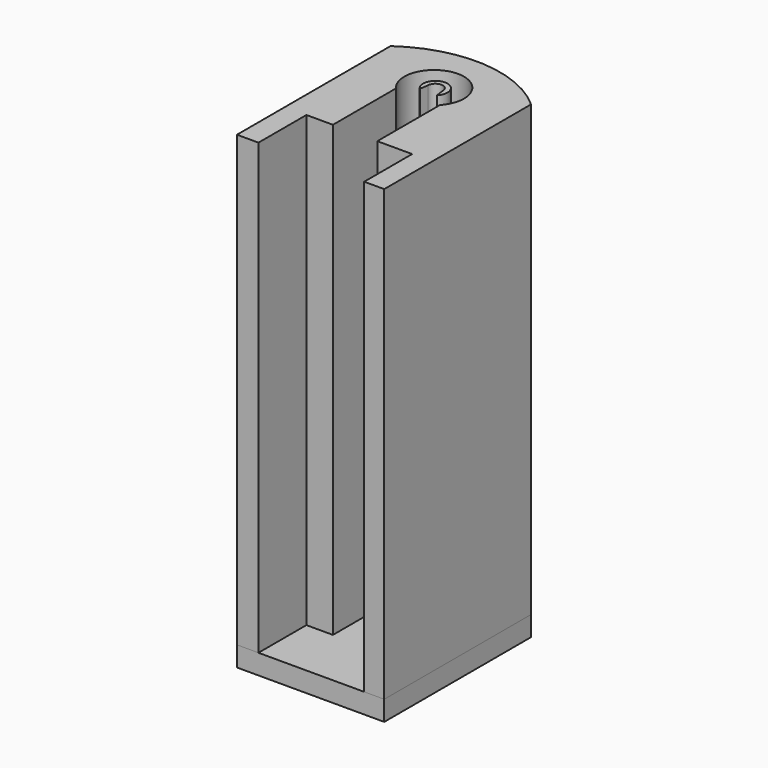
from build123d import *

# Parameters (mm, degrees)
PAD002_DEPTH = 45
PAD003_DEPTH = 45
PAD004_DEPTH = 2


with BuildPart() as outside:
    # Sketch002 → Pad002 (new body)
    with BuildSketch(Plane.XY):
        with BuildLine():
            Line((7.192789, 4.510786), (7.192789, 23.741941))
            ThreePointArc((21.950985, 22.89772), (14.720399, 25.916026), (7.192789, 23.741941))
            Line((21.950985, 4.510786), (21.950985, 22.89772))
            Line((19.943127, 4.510786), (21.950985, 4.510786))
            Line((19.943127, 10.515066), (19.943127, 4.510786))
            Line((16.453182, 10.515066), (19.943127, 10.515066))
            Line((16.453182, 18.351023), (16.453182, 10.515066))
            ThreePointArc((16.453182, 18.351023), (14.294109, 23.370772), (12.004645, 18.409136))
            Line((12.004645, 18.409136), (12.004645, 10.515066))
            Line((12.004645, 10.515066), (9.34679, 10.515066))
            Line((9.34679, 10.515066), (9.34679, 4.510786))
            Line((7.192789, 4.510786), (9.34679, 4.510786))
        make_face()
    extrude(amount=PAD002_DEPTH)


with BuildPart() as center:
    # Sketch003 → Pad003 (new body)
    with BuildSketch(Plane.XY):
        with BuildLine():
            ThreePointArc((15.238704, 19.505432), (14.383488, 21.598997), (13.50708, 19.514215))
            Line((13.635763, 20.370392), (13.50708, 19.514215))
            ThreePointArc((15.118796, 20.370309), (14.377322, 21.116533), (13.635763, 20.370392))
            Line((15.118796, 20.370309), (15.238704, 19.505432))
        make_face()
    extrude(amount=PAD003_DEPTH)


with BuildPart() as back:
    # Sketch004 → Pad004 (new body)
    with BuildSketch(Plane.XY):
        with BuildLine():
            Line((7.192789, 4.510786), (7.192789, 23.741941))
            ThreePointArc((21.950985, 22.89772), (14.720399, 25.916026), (7.192789, 23.741941))
            Line((21.950985, 22.89772), (21.950985, 4.510786))
            Line((7.192789, 4.510786), (21.950985, 4.510786))
        make_face()
        with BuildLine():
            ThreePointArc((14.067295, 16.312599), (14.372757, 16.007137), (14.678219, 16.312599))
            Line((14.678219, 16.312599), (14.678219, 20.60549))
            ThreePointArc((14.678219, 20.60549), (14.372757, 20.910952), (14.067295, 20.60549))
            Line((14.067295, 16.312599), (14.067295, 20.60549))
        make_face(mode=Mode.SUBTRACT)
    extrude(amount=-PAD004_DEPTH)


solid = Compound([outside.part, center.part, back.part])
